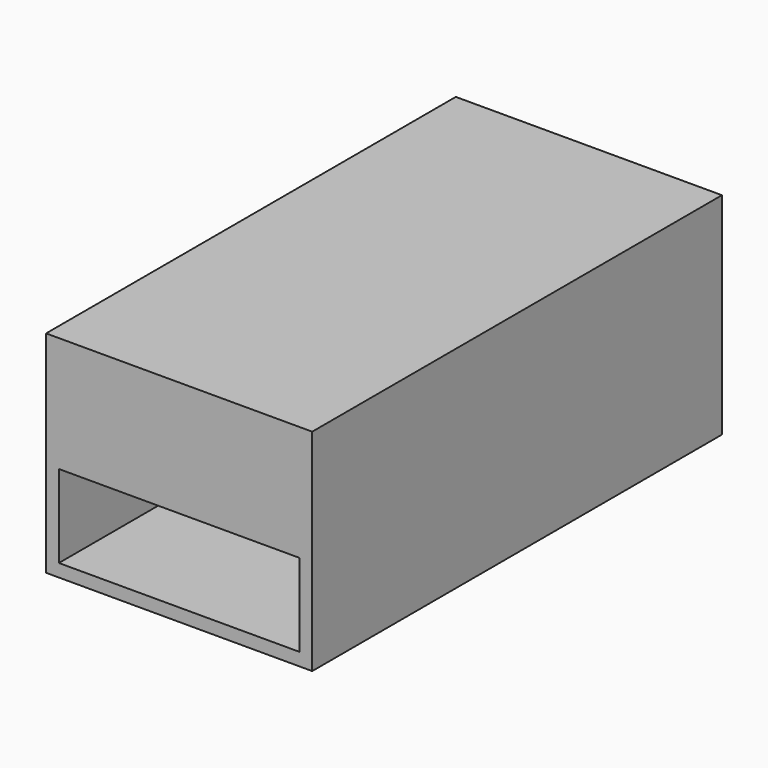
from build123d import *

# Parameters (mm, degrees)
F0_W     = 131.982717663
F0_H     = 104.5415252447
F0_W_2   = 119.2827182055
F0_H_2   = 91.8415257871
F1_DEPTH = 127
F2_DEPTH = 50.8


with BuildPart() as f1:
    # F0 (on Front) → F1 (new body, symmetric)
    with BuildSketch(Plane.XZ):
        with Locations((7.0537086576, -15.5196636915)):
            Rectangle(F0_W, F0_H)
        with Locations((7.0537083864, -15.5196639627)):
            Rectangle(F0_W_2, F0_H_2, mode=Mode.SUBTRACT)
    extrude(amount=F1_DEPTH, both=True)

    # F2 (add): a face of the model
    f2_faces = [f1.faces().sort_by_distance(p)[0] for p in [
        (7.0537083864, 0, 30.4010989308),
    ]]
    extrude(f2_faces, amount=F2_DEPTH)


solid = f1.part
